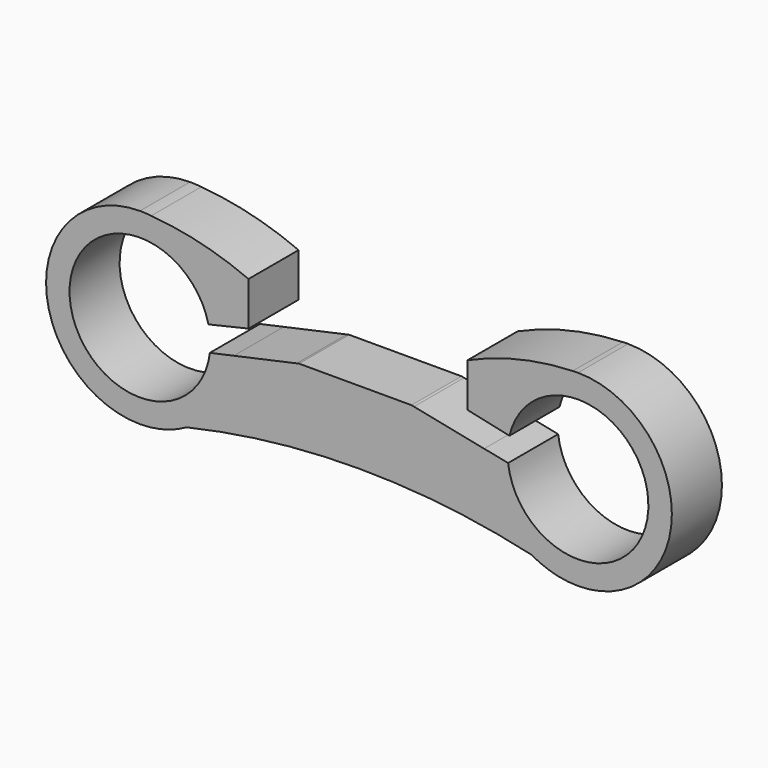
from build123d import *

# Parameters (mm, degrees)
F1_DEPTH = 25.4


with BuildPart() as f1:
    # F0 (on Front) → F1 (new body)
    with BuildSketch(Plane.XZ):
        with BuildLine():
            ThreePointArc((-86.622249, 38.617278), (-88.900416, 38.774882), (-91.181073, 38.891002))
            ThreePointArc((-91.181073, 38.891002), (-129.281073, 0.791002), (-91.181073, -37.308998))
            ThreePointArc((-91.181073, -37.308998), (-81.765826, -34.647587), (-72.271173, -32.285057))
            ThreePointArc((-72.271173, -32.285057), (-58.547731, -18.873051), (-53.102049, -0.47307))
            Line((-53.102049, -0.47307), (-62.807333, -2.594476))
            ThreePointArc((-62.807333, -2.594476), (-119.709669, -0.83683), (-63.376586, 7.38199))
            Line((-63.376586, 7.38199), (-54.099002, 9.539145))
            ThreePointArc((-54.099002, 9.539145), (-65.786674, 29.194074), (-86.622249, 38.617278))
        make_face()
        with BuildLine():
            ThreePointArc((-86.622249, 38.617278), (-88.897556, 38.822509), (-91.181073, 38.891002))
            ThreePointArc((-91.181073, 38.891002), (-88.900416, 38.774882), (-86.622249, 38.617278))
        make_face()
        with BuildLine():
            ThreePointArc((-72.271173, -32.285057), (-81.765826, -34.647587), (-91.181073, -37.308998))
            ThreePointArc((-91.181073, -37.308998), (-81.398125, -36.031599), (-72.271173, -32.285057))
        make_face()
        with BuildLine():
            ThreePointArc((-47.105435, 28.90352), (-66.467458, 35.372939), (-86.622249, 38.617278))
            ThreePointArc((-86.622249, 38.617278), (-65.786674, 29.194074), (-54.099002, 9.539145))
            Line((-54.099002, 9.539145), (-47.105435, 11.165236))
            Line((-47.105435, 11.165236), (-47.105435, 28.90352))
        make_face()
        with BuildLine():
            ThreePointArc((-53.102049, -0.47307), (-58.547731, -18.873051), (-72.271173, -32.285057))
            ThreePointArc((-72.271173, -32.285057), (-2.281073, -24.26894), (67.709026, -32.285057))
            ThreePointArc((67.709026, -32.285057), (54.029647, -18.945991), (48.545937, -0.643394))
            Line((48.545937, -0.643394), (20.053824, 5.111465))
            Line((20.053824, 5.111465), (-27.553186, 5.111465))
            Line((-27.553186, 5.111465), (-53.102049, -0.47307))
        make_face()
        with BuildLine():
            ThreePointArc((86.618927, -37.308998), (77.203679, -34.647587), (67.709026, -32.285057))
            ThreePointArc((67.709026, -32.285057), (76.835978, -36.031599), (86.618927, -37.308998))
        make_face()
        with BuildLine():
            ThreePointArc((48.545937, -0.643394), (54.029647, -18.945991), (67.709026, -32.285057))
            ThreePointArc((67.709026, -32.285057), (77.203679, -34.647587), (86.618927, -37.308998))
            ThreePointArc((86.618927, -37.308998), (124.718927, 0.791002), (86.618927, 38.891002))
            ThreePointArc((86.618927, 38.891002), (85.548522, 38.865939), (84.478399, 38.830825))
            ThreePointArc((84.478399, 38.830825), (62.064852, 29.923586), (49.490899, 9.341999))
            Line((49.490899, 9.341999), (58.80167, 7.327887))
            ThreePointArc((58.80167, 7.327887), (115.149323, -0.804968), (58.246163, -2.602654))
            Line((58.246163, -2.602654), (48.545937, -0.643394))
        make_face()
        Polygon((-26.587699, 5.322504), (-27.553186, 5.111465), (20.053824, 5.111465), (19.008979, 5.322504), align=None)
        with BuildLine():
            ThreePointArc((84.478399, 38.830825), (85.548522, 38.865939), (86.618927, 38.891002))
            ThreePointArc((86.618927, 38.891002), (85.54824, 38.875955), (84.478399, 38.830825))
        make_face()
        with BuildLine():
            ThreePointArc((49.490899, 9.341999), (62.064852, 29.923586), (84.478399, 38.830825))
            ThreePointArc((84.478399, 38.830825), (62.649408, 35.882835), (41.794565, 28.792628))
            Line((41.794565, 28.792628), (41.794565, 11.006874))
            Line((41.794565, 11.006874), (49.490899, 9.341999))
        make_face()
    extrude(amount=F1_DEPTH)


solid = f1.part
